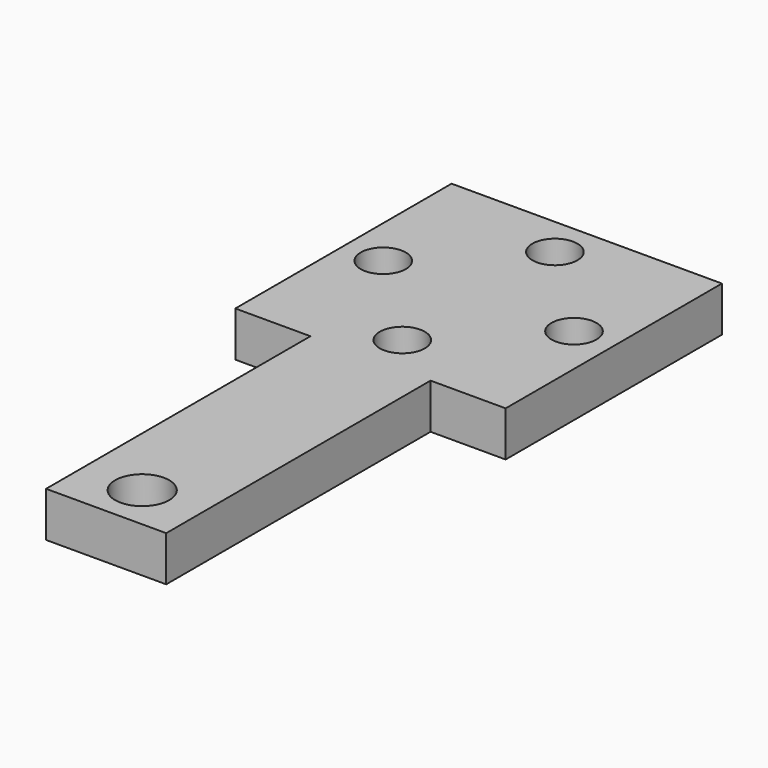
from build123d import *

# Parameters (mm, degrees)
CYLINDER005_R     = 1.8
CYLINDER005_DEPTH = 10
BOX010_W          = 8
BOX010_H          = 22
BOX010_DEPTH      = 3
CYLINDER009_R     = 1.5
CYLINDER009_DEPTH = 10
CYLINDER008_R     = 1.5
CYLINDER008_DEPTH = 10
CYLINDER007_R     = 1.5
CYLINDER007_DEPTH = 10
CYLINDER006_R     = 1.5
CYLINDER006_DEPTH = 10
BOX009_W          = 18
BOX009_H          = 18
BOX009_DEPTH      = 3


with BuildPart() as cylinder005:
    # Cylinder005 → Cylinder005 (new body)
    with BuildSketch(Plane(origin=(5, 2, 0), x_dir=(1, 0, 0), z_dir=(0, 0, 1))):
        Circle(CYLINDER005_R)
    extrude(amount=CYLINDER005_DEPTH)


with BuildPart() as cut012:
    # Box010 → Box010 (new body)
    with BuildSketch(Plane(origin=(1, -1, 0), x_dir=(1, 0, 0), z_dir=(0, 0, 1))):
        with Locations((4, 11)):
            Rectangle(BOX010_W, BOX010_H)
    extrude(amount=BOX010_DEPTH)

    # Cut012: cut Cylinder005
    add(cylinder005.part, mode=Mode.SUBTRACT)


with BuildPart() as cylinder009:
    # Cylinder009 → Cylinder009 (new body)
    with BuildSketch(Plane(origin=(5, 23.65, 0), x_dir=(1, 0, 0), z_dir=(0, 0, 1))):
        Circle(CYLINDER009_R)
    extrude(amount=CYLINDER009_DEPTH)


with BuildPart() as cylinder008:
    # Cylinder008 → Cylinder008 (new body)
    with BuildSketch(Plane(origin=(-1.35, 30, 0), x_dir=(1, 0, 0), z_dir=(0, 0, 1))):
        Circle(CYLINDER008_R)
    extrude(amount=CYLINDER008_DEPTH)


with BuildPart() as cylinder007:
    # Cylinder007 → Cylinder007 (new body)
    with BuildSketch(Plane(origin=(11.35, 30, 0), x_dir=(1, 0, 0), z_dir=(0, 0, 1))):
        Circle(CYLINDER007_R)
    extrude(amount=CYLINDER007_DEPTH)


with BuildPart() as cylinder006:
    # Cylinder006 → Cylinder006 (new body)
    with BuildSketch(Plane(origin=(5, 36.35, 0), x_dir=(1, 0, 0), z_dir=(0, 0, 1))):
        Circle(CYLINDER006_R)
    extrude(amount=CYLINDER006_DEPTH)


with BuildPart() as obj1:
    # Box009 → Box009 (new body)
    with BuildSketch(Plane(origin=(-4, 21, 0), x_dir=(1, 0, 0), z_dir=(0, 0, 1))):
        with Locations((9, 9)):
            Rectangle(BOX009_W, BOX009_H)
    extrude(amount=BOX009_DEPTH)

    # Cut008: cut Cylinder006
    add(cylinder006.part, mode=Mode.SUBTRACT)

    # Cut009: cut Cylinder007
    add(cylinder007.part, mode=Mode.SUBTRACT)

    # Cut010: cut Cylinder008
    add(cylinder008.part, mode=Mode.SUBTRACT)

    # Cut011: cut Cylinder009
    add(cylinder009.part, mode=Mode.SUBTRACT)

    # Fusion002: union Cut012
    add(cut012.part)


solid = obj1.part
